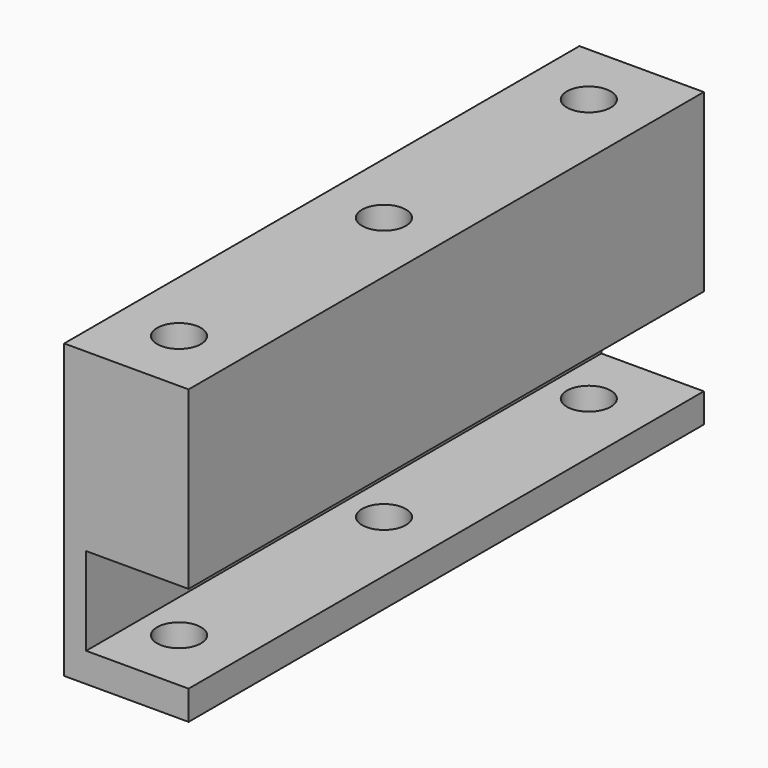
from build123d import *

# Parameters (mm, degrees)
SKETCH040_W      = 11
SKETCH040_H      = 6
EXTRUDE014_DEPTH = 7
FILLET007_R      = 1
SKETCH031_W      = 8.5
SKETCH031_H      = 44
PAD003_DEPTH     = 20
SKETCH030_R      = 1.5
HOLE005_DEPTH    = 4
SKETCH033_R      = 1.5
HOLE007_DEPTH    = 4
SKETCH039_W      = 44
SKETCH039_H      = 6
POCKET001_DEPTH  = 7


with BuildPart() as part:
    # Sketch040 (on Face5 of Pocket001) → Extrude014 (new body)
    with BuildSketch(Plane.YZ.offset(163.5)):
        with Locations((30.5, 5)):
            Rectangle(SKETCH040_W, SKETCH040_H)
        with Locations((13.5, 5)):
            Rectangle(SKETCH040_W, SKETCH040_H)
    extrude(amount=EXTRUDE014_DEPTH)

    # Fillet007
    fillet007_edges = [part.edges().sort_by_distance(p)[0] for p in [
        (170.5, 8, 5),
        (170.5, 19, 5),
        (170.5, 36, 5),
        (170.5, 25, 5),
    ]]
    fillet(fillet007_edges, radius=FILLET007_R)

    # Sketch031 → Pad003 (new body)
    with BuildSketch(Plane.XY):
        with Locations((166.25, 22)):
            Rectangle(SKETCH031_W, SKETCH031_H)
    extrude(amount=PAD003_DEPTH)

    # Sketch030 → Hole005 (cut)
    with BuildSketch(Plane.XY):
        with Locations((166.244797, 39.500001)):
            Circle(SKETCH030_R)
        with Locations((166.247574, 22)):
            Circle(SKETCH030_R)
        with Locations((166.247574, 4.5)):
            Circle(SKETCH030_R)
    extrude(amount=HOLE005_DEPTH, mode=Mode.SUBTRACT)

    # Sketch033 (on Face5 of Hole005) → Hole007 (cut)
    with BuildSketch(Plane.XY.offset(20)):
        with Locations((166.244797, 39.500001)):
            Circle(SKETCH033_R)
        with Locations((166.247574, 22)):
            Circle(SKETCH033_R)
        with Locations((166.247574, 4.5)):
            Circle(SKETCH033_R)
    extrude(amount=-HOLE007_DEPTH, mode=Mode.SUBTRACT)

    # Sketch039 (on Face3 of Hole007) → Pocket001 (cut)
    with BuildSketch(Plane.YZ.offset(170.5)):
        with Locations((22, 5)):
            Rectangle(SKETCH039_W, SKETCH039_H)
    extrude(amount=-POCKET001_DEPTH, mode=Mode.SUBTRACT)


solid = part.part
